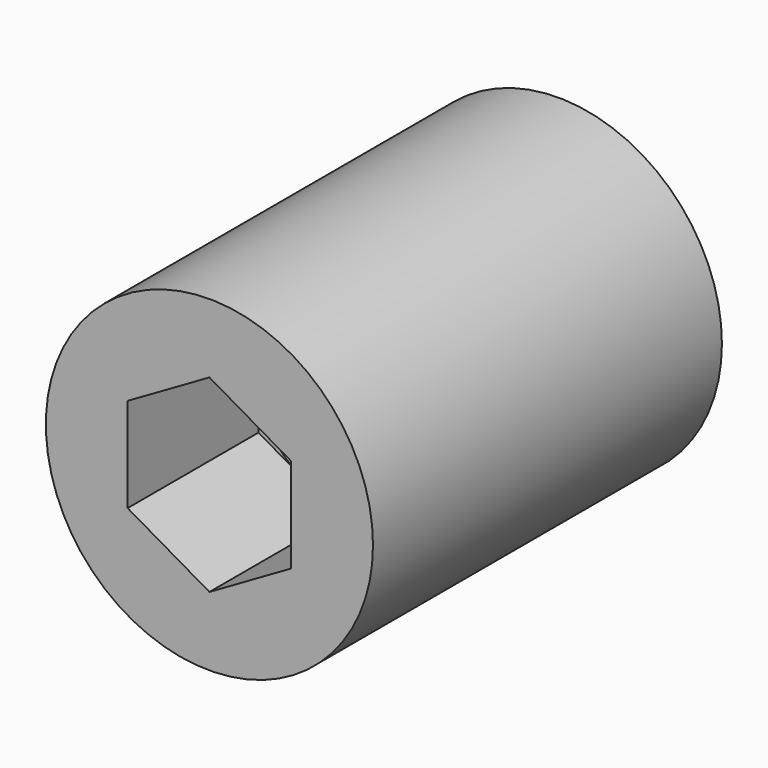
from build123d import *

# Parameters (mm, degrees)
F0_R     = 9.525
F1_DEPTH = 25.4
F3_DEPTH = 25.401
F4_DEPTH = 11.0998
F6_DEPTH = 9.525


with BuildPart() as f1:
    # F0 (on Front) → F1 (new body)
    with BuildSketch(Plane.XZ):
        Circle(F0_R)
    extrude(amount=F1_DEPTH)

    # F2 (on Front) → F3 (cut, through all)
    with BuildSketch(Plane.XZ):
        with BuildLine():
            ThreePointArc((-4.7625, 0), (-3.367596, -3.367596), (0, -4.7625))
            ThreePointArc((0, -4.7625), (3.367596, -3.367596), (4.7625, 0))
            ThreePointArc((4.7625, 0), (3.367596, 3.367596), (0, 4.7625))
            ThreePointArc((0, 4.7625), (-3.367596, 3.367596), (-4.7625, 0))
        make_face()
    extrude(amount=F3_DEPTH, mode=Mode.SUBTRACT)

    # F2 (on Front) → F4 (cut)
    with BuildSketch(Plane.XZ):
        with BuildLine():
            Line((0, -4.7625), (4.7625, -4.7625))
            Line((4.7625, -4.7625), (4.7625, 0))
            ThreePointArc((4.7625, 0), (3.367596, -3.367596), (0, -4.7625))
        make_face()
        with BuildLine():
            Line((-4.7625, -4.7625), (0, -4.7625))
            ThreePointArc((0, -4.7625), (-3.367596, -3.367596), (-4.7625, 0))
            Line((-4.7625, 0), (-4.7625, -4.7625))
        make_face()
        with BuildLine():
            ThreePointArc((0, 4.7625), (3.367596, 3.367596), (4.7625, 0))
            Line((4.7625, 0), (4.7625, 4.7625))
            Line((4.7625, 4.7625), (0, 4.7625))
        make_face()
        with BuildLine():
            Line((-4.7625, 4.7625), (-4.7625, 0))
            ThreePointArc((-4.7625, 0), (-3.367596, 3.367596), (0, 4.7625))
            Line((0, 4.7625), (-4.7625, 4.7625))
        make_face()
    extrude(amount=F4_DEPTH, mode=Mode.SUBTRACT)

    # F5 (on face) → F6 (cut)
    with BuildSketch(Plane.XZ.offset(25.4)):
        Polygon((4.7625, -2.749631), (4.7625, 2.749631), (0, 5.499261), (-4.7625, 2.749631), (-4.7625, -2.749631), (0, -5.499261), align=None)
        Polygon((4.7625, -2.749631), (4.7625, 2.749631), (0, 5.499261), (-4.7625, 2.749631), (-4.7625, -2.749631), (0, -5.499261), align=None)
        Polygon((4.7625, -2.749631), (4.7625, 2.749631), (0, 5.499261), (-4.7625, 2.749631), (-4.7625, -2.749631), (0, -5.499261), align=None)
        Polygon((4.7625, -2.749631), (4.7625, 2.749631), (0, 5.499261), (-4.7625, 2.749631), (-4.7625, -2.749631), (0, -5.499261), align=None)
        Polygon((4.7625, -2.749631), (4.7625, 2.749631), (0, 5.499261), (-4.7625, 2.749631), (-4.7625, -2.749631), (0, -5.499261), align=None)
        Polygon((4.7625, -2.749631), (4.7625, 2.749631), (0, 5.499261), (-4.7625, 2.749631), (-4.7625, -2.749631), (0, -5.499261), align=None)
    extrude(amount=-F6_DEPTH, mode=Mode.SUBTRACT)


solid = f1.part
